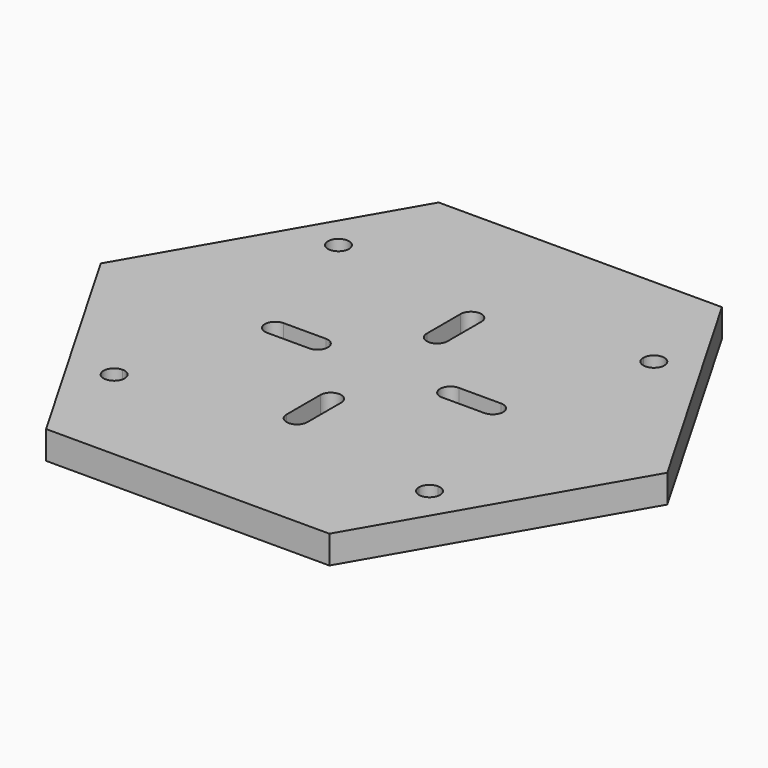
from build123d import *

# Parameters (mm, degrees)
F0_W     = 2.971
F0_H     = 2.971
F1_DEPTH = 4


with BuildPart() as f1:
    # F0 (on Top) → F1 (new body)
    with BuildSketch(Plane.XY):
        Polygon((-20.2072594216, -35), (20.2072594216, -35), (40.4145188433, 0), (20.2072594216, 35), (-20.2072594216, 35), (-40.4145188433, 0), align=None)
        with BuildLine():
            Line((21, -20), (-21, -20))
            ThreePointArc((-21, -20), (-23.5606601718, -21.0606601718), (-22.5, -18.5))
            Line((-22.5, -18.5), (-22.5, 18.5))
            ThreePointArc((-22.5, 18.5), (-23.5606601718, 21.0606601718), (-21, 20))
            Line((-21, 20), (21, 20))
            ThreePointArc((21, 20), (22.5, 21.5), (24, 20))
            ThreePointArc((24, 20), (23.5606601718, 18.9393398282), (22.5, 18.5))
            Line((22.5, 18.5), (22.5, -18.5))
            ThreePointArc((22.5, -18.5), (23.5606601718, -18.9393398282), (24, -20))
            ThreePointArc((24, -20), (22.5, -21.5), (21, -20))
        make_face(mode=Mode.SUBTRACT)
        with BuildLine():
            ThreePointArc((-22.5, -18.5), (-21.4393398282, -18.9393398282), (-21, -20))
            Line((-21, -20), (21, -20))
            ThreePointArc((21, -20), (21.4393398282, -18.9393398282), (22.5, -18.5))
            Line((22.5, -18.5), (22.5, 18.5))
            ThreePointArc((22.5, 18.5), (21.4393398282, 18.9393398282), (21, 20))
            Line((21, 20), (-21, 20))
            ThreePointArc((-21, 20), (-21.4393398282, 18.9393398282), (-22.5, 18.5))
            Line((-22.5, 18.5), (-22.5, -18.5))
        make_face()
        with BuildLine():
            Line((15.51465, -1.4855), (9.4855, -1.4855))
            Line((9.4855, -1.4855), (1.4855, -1.4855))
            Line((1.4855, -1.4855), (1.4855, -9.4855))
            Line((1.4855, -9.4855), (1.4855, -15.51465))
            ThreePointArc((1.4855, -15.51465), (0, -17.00015), (-1.4855, -15.51465))
            Line((-1.4855, -15.51465), (-1.4855, -9.4855))
            Line((-1.4855, -9.4855), (-1.4855, -1.4855))
            Line((-1.4855, -1.4855), (-9.4855, -1.4855))
            Line((-9.4855, -1.4855), (-15.51465, -1.4855))
            ThreePointArc((-15.51465, -1.4855), (-17.00015, 0), (-15.51465, 1.4855))
            Line((-15.51465, 1.4855), (-9.4855, 1.4855))
            Line((-9.4855, 1.4855), (-1.4855, 1.4855))
            Line((-1.4855, 1.4855), (-1.4855, 9.4855))
            Line((-1.4855, 9.4855), (-1.4855, 15.51465))
            ThreePointArc((-1.4855, 15.51465), (0, 17.00015), (1.4855, 15.51465))
            Line((1.4855, 15.51465), (1.4855, 9.4855))
            Line((1.4855, 9.4855), (1.4855, 1.4855))
            Line((1.4855, 1.4855), (9.4855, 1.4855))
            Line((9.4855, 1.4855), (15.51465, 1.4855))
            ThreePointArc((15.51465, 1.4855), (16.5650571235, 1.0504071235), (17.00015, 0))
            ThreePointArc((17.00015, 0), (16.5650571235, -1.0504071235), (15.51465, -1.4855))
        make_face(mode=Mode.SUBTRACT)
        with BuildLine():
            Line((-1.4855, 1.4855), (1.4855, 1.4855))
            Line((1.4855, 1.4855), (1.4855, 9.4855))
            ThreePointArc((1.4855, 9.4855), (0, 8), (-1.4855, 9.4855))
            Line((-1.4855, 9.4855), (-1.4855, 1.4855))
        make_face()
        with BuildLine():
            Line((-9.4855, -1.4855), (-1.4855, -1.4855))
            Line((-1.4855, -1.4855), (-1.4855, 1.4855))
            Line((-1.4855, 1.4855), (-9.4855, 1.4855))
            ThreePointArc((-9.4855, 1.4855), (-8.4350928765, 1.0504071235), (-8, 0))
            ThreePointArc((-8, 0), (-8.4350928765, -1.0504071235), (-9.4855, -1.4855))
        make_face()
        with BuildLine():
            Line((1.4855, -1.4855), (9.4855, -1.4855))
            ThreePointArc((9.4855, -1.4855), (8, 0), (9.4855, 1.4855))
            Line((9.4855, 1.4855), (1.4855, 1.4855))
            Line((1.4855, 1.4855), (1.4855, -1.4855))
        make_face()
        Rectangle(F0_W, F0_H)
        with BuildLine():
            Line((1.4855, -9.4855), (1.4855, -1.4855))
            Line((1.4855, -1.4855), (-1.4855, -1.4855))
            Line((-1.4855, -1.4855), (-1.4855, -9.4855))
            ThreePointArc((-1.4855, -9.4855), (0, -8), (1.4855, -9.4855))
        make_face()
    extrude(amount=F1_DEPTH)


solid = f1.part
